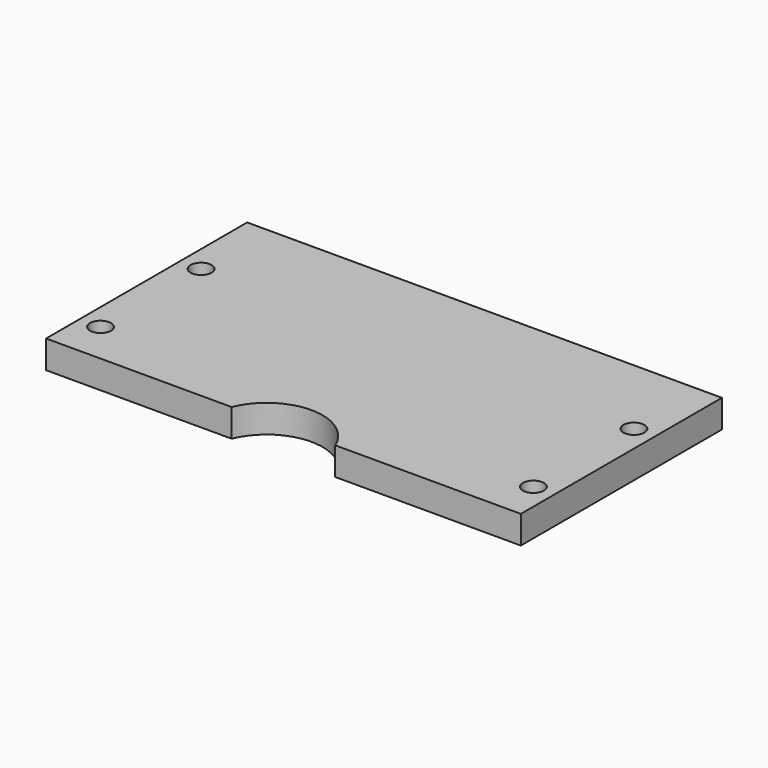
from build123d import *

# Parameters (mm, degrees)
CYLINDER682_R               = 8
CYLINDER682_DEPTH           = 6
CYLINDER669_R               = 1.5
CYLINDER669_DEPTH           = 50
CYLINDER669_PLACEMENT_ANGLE = 45
CYLINDER672_R               = 1.5
CYLINDER672_DEPTH           = 50
CYLINDER672_PLACEMENT_ANGLE = 45
CYLINDER680_R               = 1.5
CYLINDER680_DEPTH           = 50
CYLINDER680_PLACEMENT_ANGLE = 45
CYLINDER673_R               = 1.5
CYLINDER673_DEPTH           = 50
CYLINDER673_PLACEMENT_ANGLE = 45
BOX249_W                    = 68
BOX249_H                    = 36
BOX249_DEPTH                = 4


with BuildPart() as obj1:
    # Cylinder682 → Cylinder682 (new body)
    with BuildSketch(Plane(origin=(0, 83, 25), x_dir=(1, 0, 0), z_dir=(0, 0, 1))):
        Circle(CYLINDER682_R)
    extrude(amount=CYLINDER682_DEPTH)


with BuildPart() as obj2:
    # Cylinder669 → Cylinder669 (new body)
    with BuildSketch(Plane.XY):
        Circle(CYLINDER669_R)
    extrude(amount=CYLINDER669_DEPTH)


with BuildPart() as obj2_1:
    # Cylinder669 placement: moved
    add(obj2.part.moved(Location((-31, 92, 0))).rotate(Axis((-31, 92, 0), (0, 0, 1)), CYLINDER669_PLACEMENT_ANGLE))


with BuildPart() as obj3:
    # Cylinder672 → Cylinder672 (new body)
    with BuildSketch(Plane.XY):
        Circle(CYLINDER672_R)
    extrude(amount=CYLINDER672_DEPTH)


with BuildPart() as obj3_1:
    # Cylinder672 placement: moved
    add(obj3.part.moved(Location((31, 110, 0))).rotate(Axis((31, 110, 0), (0, 0, 1)), CYLINDER672_PLACEMENT_ANGLE))


with BuildPart() as obj4:
    # Cylinder680 → Cylinder680 (new body)
    with BuildSketch(Plane.XY):
        Circle(CYLINDER680_R)
    extrude(amount=CYLINDER680_DEPTH)


with BuildPart() as obj4_1:
    # Cylinder680 placement: moved
    add(obj4.part.moved(Location((31, 92, 0))).rotate(Axis((31, 92, 0), (0, 0, 1)), CYLINDER680_PLACEMENT_ANGLE))


with BuildPart() as compound397:
    # Cylinder673 → Cylinder673 (new body)
    with BuildSketch(Plane.XY):
        Circle(CYLINDER673_R)
    extrude(amount=CYLINDER673_DEPTH)


with BuildPart() as compound397_1:
    # Cylinder673 placement: moved
    add(compound397.part.moved(Location((-31, 110, 0))).rotate(Axis((-31, 110, 0), (0, 0, 1)), CYLINDER673_PLACEMENT_ANGLE))

    # Compound397: union obj2, obj3, obj4
    add(obj2_1.part)
    add(obj3_1.part)
    add(obj4_1.part)


with BuildPart() as cut266:
    # Box249 → Box249 (new body)
    with BuildSketch(Plane(origin=(-34, 86, 27), x_dir=(1, 0, 0), z_dir=(0, 0, 1))):
        with Locations((34, 18)):
            Rectangle(BOX249_W, BOX249_H)
    extrude(amount=BOX249_DEPTH)

    # Cut276: cut Compound397
    add(compound397_1.part, mode=Mode.SUBTRACT)

    # Cut266: cut obj1
    add(obj1.part, mode=Mode.SUBTRACT)


solid = cut266.part
